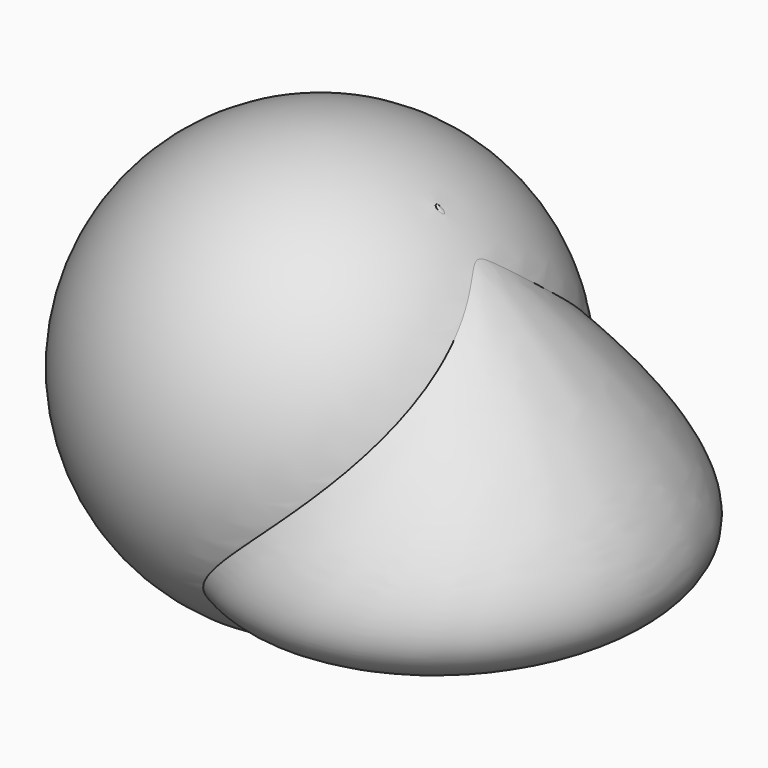
from build123d import *


with BuildPart() as f1:
    # F0 (on Right) → F1 (revolve)
    with BuildSketch(Plane.YZ):
        with BuildLine():
            Line((0, 101.6), (0, -101.6))
            ThreePointArc((0, -101.6), (101.6, 0), (0, 101.6))
        make_face()
    revolve(axis=Axis((0, 0, 0), (0, 0, -1)))

    # F2 (on Front) → F3 (revolve)
    with BuildSketch(Plane.XZ):
        with BuildLine():
            add(Edge.make_bspline(
                [(55.2026174794, 85.9687531316), (99.4917601347, 47.3770275712), (227.701693365, -63.53808251), (94.9174240232, -78.7438899279), (64.3668818074, -78.459678404)],
                knots=[0, 0, 0, 0, 0.5641313988, 1, 1, 1, 1], degree=3))
            Line((55.2026174794, 85.9687531316), (64.3668818074, -78.459678404))
        make_face()
    revolve(axis=Axis((59.7847496434, 0, 3.7545373638), (0.0556476998, 0, -0.9984504662)))


solid = f1.part
